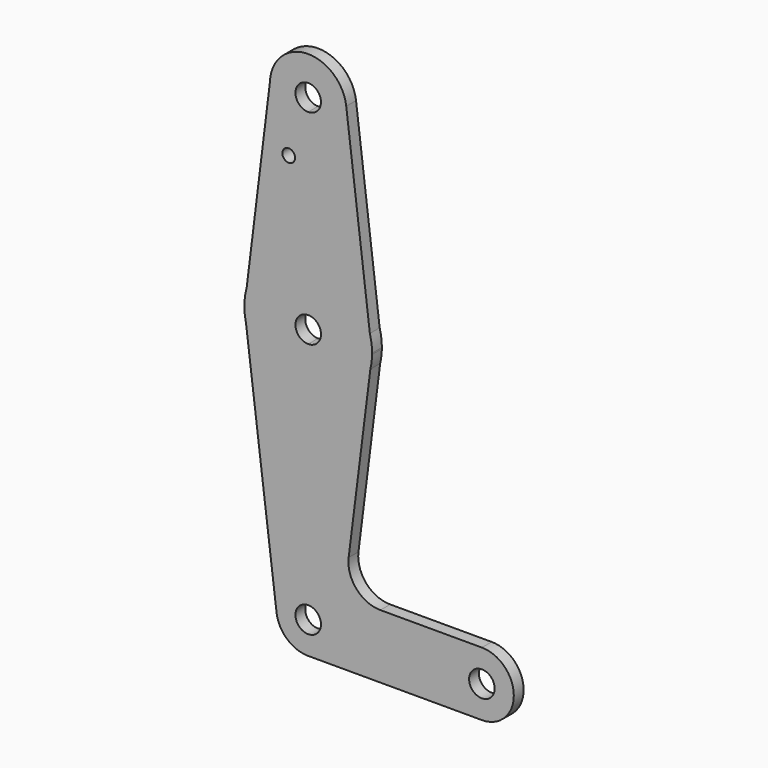
from build123d import *

# Parameters (mm, degrees)
F0_R     = 1.5875
F1_DEPTH = 3.048


with BuildPart() as f1:
    # F0 (on Front) → F1 (new body)
    with BuildSketch(Plane.XZ):
        with BuildLine():
            ThreePointArc((23.1870869634, -31.9542263928), (20.8622470391, -26.3415663171), (15.2495869634, -24.0167263928))
            Line((15.2495869634, -24.0167263928), (15.2495869634, -28.7792263928))
            ThreePointArc((15.2495869634, -28.7792263928), (17.4946509937, -29.7091623625), (18.4245869634, -31.9542263928))
            Line((18.4245869634, -31.9542263928), (23.1870869634, -31.9542263928))
        make_face()
        with BuildLine():
            Line((15.2495869634, -24.0167263928), (15.2495869634, 15.6707736072))
            ThreePointArc((15.2495869634, 15.6707736072), (5.3443040445, 19.1400896157), (-0.231585917, 28.0316718375))
            Line((-0.231585917, 28.0316718375), (7.3731218531, -32.9366741605))
            ThreePointArc((7.3731218531, -32.9366741605), (9.2997094266, -26.7003836518), (15.2495869634, -24.0167263928))
        make_face()
        with BuildLine():
            ThreePointArc((30.5780217523, 35.6755086982), (24.9050538198, 44.146868194), (15.2495869634, 47.4207736072))
            Line((15.2495869634, 47.4207736072), (15.2495869634, 34.7207736072))
            ThreePointArc((15.2495869634, 34.7207736072), (17.4946509937, 33.7908376375), (18.4245869634, 31.5457736072))
            ThreePointArc((18.4245869634, 31.5457736072), (17.4946509937, 29.3007095769), (15.2495869634, 28.3707736072))
            Line((15.2495869634, 28.3707736072), (15.2495869634, 15.6707736072))
            ThreePointArc((15.2495869634, 15.6707736072), (25.1063279056, 19.1014864441), (30.70282977, 27.9108166941))
            Line((30.70282977, 27.9108166941), (31.1217936949, 31.2479842983))
            Line((31.1217936949, 31.2479842983), (30.5780217523, 35.6755086982))
        make_face()
        with BuildLine():
            Line((50.4920869634, -31.9542263928), (23.1870869634, -31.9542263928))
            ThreePointArc((23.1870869634, -31.9542263928), (20.9381823709, -37.4899095972), (15.4658174101, -39.8887806112))
            Line((15.4658174101, -39.8887806112), (58.4290427307, -39.8917263742))
            ThreePointArc((58.4290427307, -39.8917263742), (52.8167344757, -37.5666940499), (50.4920869634, -31.9542263928))
        make_face()
        with BuildLine():
            ThreePointArc((30.70282977, 27.9108166941), (25.1063279056, 19.1014864441), (15.2495869634, 15.6707736072))
            Line((15.2495869634, 15.6707736072), (15.2495869634, -24.0167263928))
            ThreePointArc((15.2495869634, -24.0167263928), (20.8622470391, -26.3415663171), (23.1870869634, -31.9542263928))
            Line((23.1870869634, -31.9542263928), (50.4920869634, -31.9542263928))
            ThreePointArc((50.4920869634, -31.9542263928), (52.8169268877, -26.3415663171), (58.4295869634, -24.0167263928))
            Line((58.4295869634, -24.0167263928), (33.1943130773, -24.0167263928))
            ThreePointArc((33.1943130773, -24.0167263928), (27.232810869, -21.3263905984), (25.3060355304, -15.0761944366))
            Line((25.3060355304, -15.0761944366), (30.70282977, 27.9108166941))
        make_face()
        with BuildLine():
            ThreePointArc((5.7290741621, 82.6381107416), (8.4118191915, 75.7147437552), (15.2495869634, 72.8207736072))
            ThreePointArc((15.2495869634, 72.8207736072), (21.9847790542, 75.6105815164), (24.7745869634, 82.3457736072))
            ThreePointArc((24.7745869634, 82.3457736072), (24.7568118407, 82.9274093451), (24.703552815, 83.5068742386))
            ThreePointArc((24.703552815, 83.5068742386), (14.8139327111, 91.8608054186), (5.7290741621, 82.6381107416))
        make_face()
        with BuildLine():
            ThreePointArc((18.4245869634, 82.3457736072), (17.4946509937, 80.1007095769), (15.2495869634, 79.1707736072))
            ThreePointArc((15.2495869634, 79.1707736072), (13.0045229331, 84.5908376375), (18.4245869634, 82.3457736072))
        make_face(mode=Mode.SUBTRACT)
        with BuildLine():
            Line((15.2495869634, 47.4207736072), (15.2495869634, 72.8207736072))
            ThreePointArc((15.2495869634, 72.8207736072), (8.4118191915, 75.7147437552), (5.7290741621, 82.6381107416))
            Line((5.7290741621, 82.6381107416), (-0.0487011316, 35.7858215271))
            ThreePointArc((-0.0487011316, 35.7858215271), (5.6395696827, 44.1815637631), (15.2495869634, 47.4207736072))
        make_face()
        with Locations((10.405799374, 68.0709736072)):
            Circle(F0_R, mode=Mode.SUBTRACT)
        with BuildLine():
            Line((15.2495869634, -28.7792263928), (15.2495869634, -24.0167263928))
            ThreePointArc((15.2495869634, -24.0167263928), (9.2997094266, -26.7003836518), (7.3731218531, -32.9366741605))
            ThreePointArc((7.3731218531, -32.9366741605), (9.9147790003, -37.831617842), (15.0322684572, -39.888750885))
            Line((15.0322684572, -39.888750885), (15.4658174101, -39.8887806112))
            ThreePointArc((15.4658174101, -39.8887806112), (20.9381823709, -37.4899095972), (23.1870869634, -31.9542263928))
            Line((23.1870869634, -31.9542263928), (18.4245869634, -31.9542263928))
            ThreePointArc((18.4245869634, -31.9542263928), (13.0045229331, -34.1992904231), (15.2495869634, -28.7792263928))
        make_face()
        with BuildLine():
            ThreePointArc((58.4295869634, -24.0167263928), (52.8169268877, -26.3415663171), (50.4920869634, -31.9542263928))
            ThreePointArc((50.4920869634, -31.9542263928), (52.8167344757, -37.5666940499), (58.4290427307, -39.8917263742))
            ThreePointArc((58.4290427307, -39.8917263742), (64.0420546204, -37.5670788805), (66.3670869634, -31.9542263928))
            ThreePointArc((66.3670869634, -31.9542263928), (64.0422470391, -26.3415663171), (58.4295869634, -24.0167263928))
        make_face()
        with BuildLine():
            ThreePointArc((61.6045869634, -31.9542263928), (58.4295869634, -35.1292263928), (55.2545869634, -31.9542263928))
            ThreePointArc((55.2545869634, -31.9542263928), (58.4295869634, -28.7792263928), (61.6045869634, -31.9542263928))
        make_face(mode=Mode.SUBTRACT)
        with BuildLine():
            Line((15.2495869634, 34.7207736072), (15.2495869634, 47.4207736072))
            ThreePointArc((15.2495869634, 47.4207736072), (5.6395696827, 44.1815637631), (-0.0487011316, 35.7858215271))
            Line((-0.0487011316, 35.7858215271), (-0.620463169, 31.1493725522))
            Line((-0.620463169, 31.1493725522), (-0.231585917, 28.0316718375))
            ThreePointArc((-0.231585917, 28.0316718375), (5.3443040445, 19.1400896157), (15.2495869634, 15.6707736072))
            Line((15.2495869634, 15.6707736072), (15.2495869634, 28.3707736072))
            ThreePointArc((15.2495869634, 28.3707736072), (12.0745869634, 31.5457736072), (15.2495869634, 34.7207736072))
        make_face()
        with BuildLine():
            ThreePointArc((24.7745869634, 82.3457736072), (21.9847790542, 75.6105815164), (15.2495869634, 72.8207736072))
            Line((15.2495869634, 72.8207736072), (15.2495869634, 47.4207736072))
            ThreePointArc((15.2495869634, 47.4207736072), (24.9050538198, 44.146868194), (30.5780217523, 35.6755086982))
            Line((30.5780217523, 35.6755086982), (24.703552815, 83.5068742386))
            ThreePointArc((24.703552815, 83.5068742386), (24.7568118407, 82.9274093451), (24.7745869634, 82.3457736072))
        make_face()
        with BuildLine():
            ThreePointArc((30.70282977, 27.9108166941), (31.0009398925, 29.5682736946), (31.1217936949, 31.2479842983))
            Line((31.1217936949, 31.2479842983), (30.70282977, 27.9108166941))
        make_face()
        with BuildLine():
            Line((-0.231585917, 28.0316718375), (-0.620463169, 31.1493725522))
            ThreePointArc((-0.620463169, 31.1493725522), (-0.5033432572, 29.5808780718), (-0.231585917, 28.0316718375))
        make_face()
        with BuildLine():
            Line((-0.620463169, 31.1493725522), (-0.0487011316, 35.7858215271))
            ThreePointArc((-0.0487011316, 35.7858215271), (-0.5060625547, 33.4887438237), (-0.620463169, 31.1493725522))
        make_face()
        with BuildLine():
            ThreePointArc((31.1245869634, 31.5457736072), (30.9873524858, 33.6286469502), (30.5780217523, 35.6755086982))
            Line((30.5780217523, 35.6755086982), (31.1217936949, 31.2479842983))
            ThreePointArc((31.1217936949, 31.2479842983), (31.1238886309, 31.3968724026), (31.1245869634, 31.5457736072))
        make_face()
        with BuildLine():
            Line((15.4658174101, -39.8887806112), (15.0322684572, -39.888750885))
            ThreePointArc((15.0322684572, -39.888750885), (15.2490427307, -39.8917263742), (15.4658174101, -39.8887806112))
        make_face()
    extrude(amount=F1_DEPTH)


solid = f1.part
